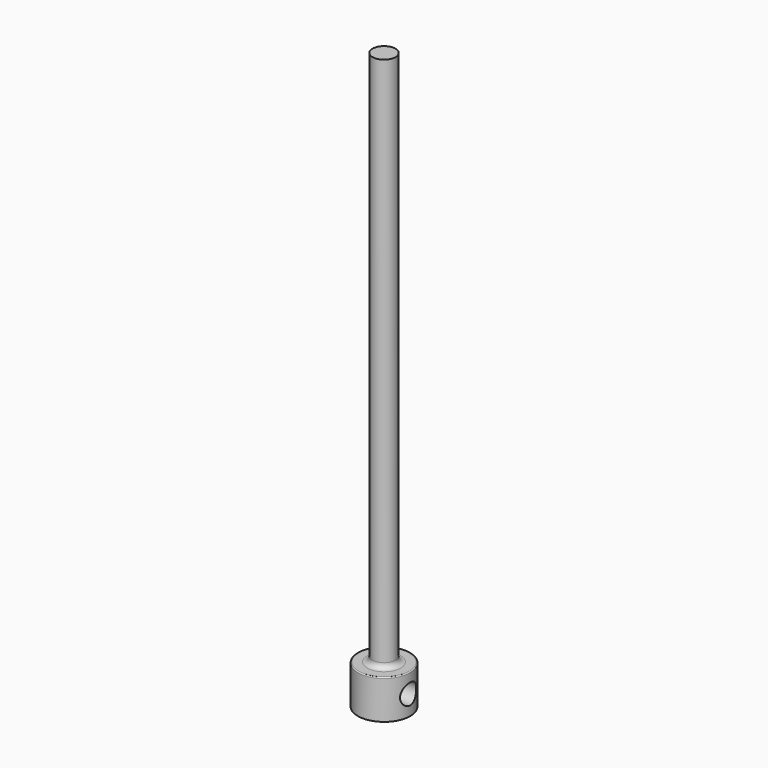
from build123d import *

# Parameters (mm, degrees)
F0_R     = 2.794
F1_DEPTH = 139.7
F2_R     = 6.35
F3_DEPTH = 9.525
F4_R     = 1.27
F5_R     = 0.254
F6_R     = 2.460798
F7_DEPTH = 25.4
F8_DEPTH = 25.4


with BuildPart() as f1:
    # F0 (on Top) → F1 (new body)
    with BuildSketch(Plane.XY):
        Circle(F0_R)
    extrude(amount=F1_DEPTH)

    # F2 (on face) → F3 (join)
    with BuildSketch(Plane(origin=(0, 0, 0), x_dir=(1, 0, 0), z_dir=(0, 0, -1))):
        Circle(F2_R)
    extrude(amount=-F3_DEPTH)

    # F4
    f4_edges = [f1.edges().sort_by_distance(p)[0] for p in [
        (-2.794, 0, 9.525),
    ]]
    fillet(f4_edges, radius=F4_R)

    # F5
    f5_edges = [f1.edges().sort_by_distance(p)[0] for p in [
        (-6.35, 0, 9.525),
    ]]
    fillet(f5_edges, radius=F5_R)

    # F6 (on Right) → F7 (cut)
    with BuildSketch(Plane.YZ):
        with Locations((0, 4.7625)):
            Circle(F6_R)
    extrude(amount=-F7_DEPTH, mode=Mode.SUBTRACT)

    # F6 (on Right) → F8 (cut)
    with BuildSketch(Plane.YZ):
        with Locations((0, 4.7625)):
            Circle(F6_R)
    extrude(amount=F8_DEPTH, mode=Mode.SUBTRACT)


solid = f1.part
